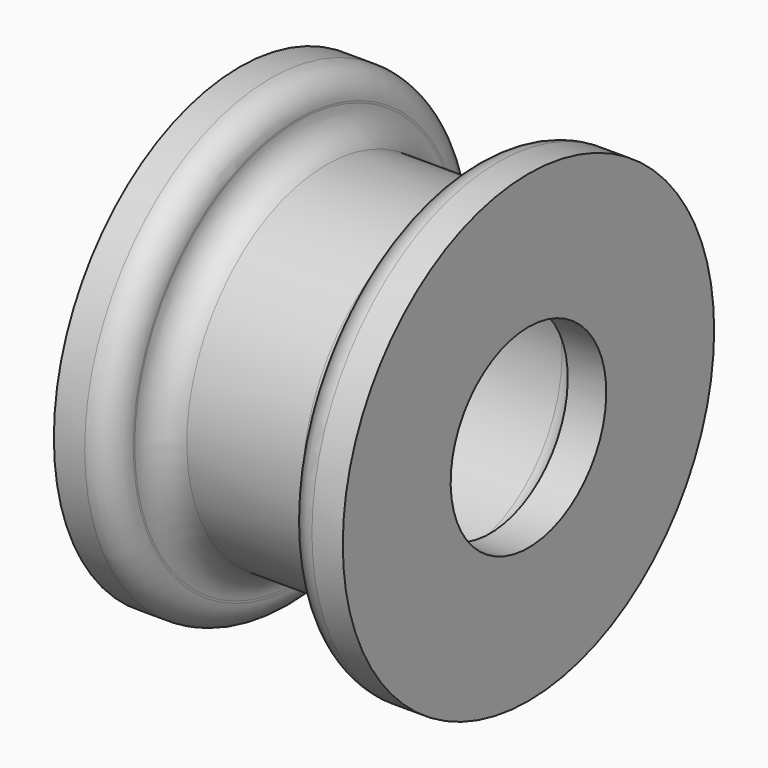
from build123d import *


with BuildPart() as f1:
    # F0 (on Front) → F1 (revolve)
    with BuildSketch(Plane.XZ):
        with BuildLine():
            Line((0, 24.1), (0, 13.1))
            Line((0, 13.1), (23, 13.1))
            ThreePointArc((23, 13.1), (25.12132, 12.22132), (26, 10.1))
            Line((26, 10.1), (30, 10.1))
            Line((30, 10.1), (30, 24.1))
            Line((30, 24.1), (26.8, 24.1))
            ThreePointArc((26.8, 24.1), (24.820101, 23.279899), (24, 21.3))
            Line((24, 21.3), (24, 21.1))
            ThreePointArc((24, 21.1), (23.12132, 18.97868), (21, 18.1))
            Line((21, 18.1), (9, 18.1))
            ThreePointArc((9, 18.1), (6.87868, 18.97868), (6, 21.1))
            Line((6, 21.1), (6, 21.3))
            ThreePointArc((6, 21.3), (5.179899, 23.279899), (3.2, 24.1))
            Line((3.2, 24.1), (0, 24.1))
        make_face()
    revolve(axis=Axis((23.917552, 0, 0), (1, 0, 0)))


solid = f1.part
